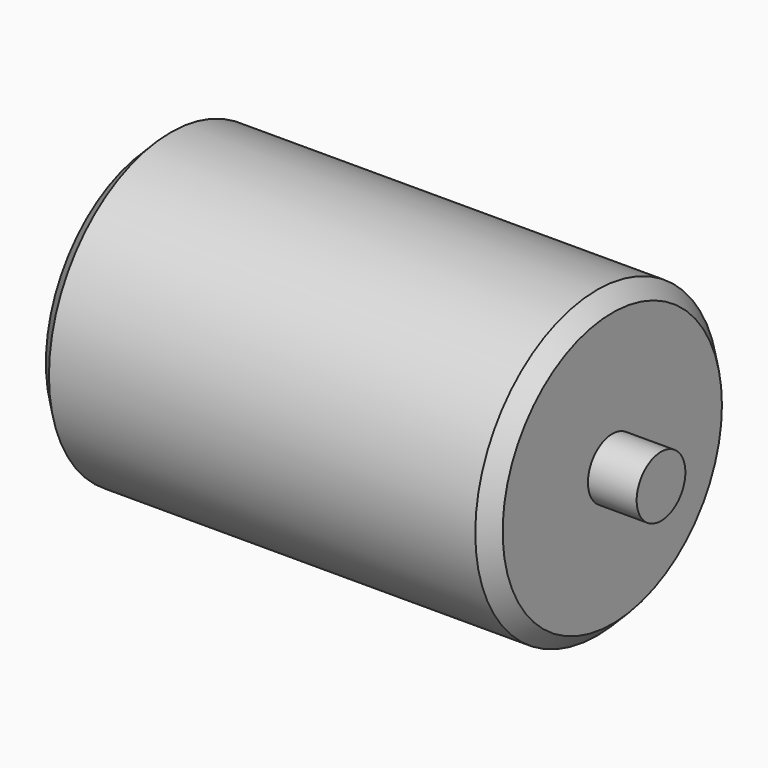
from build123d import *

# Parameters (mm, degrees)
F2_SIZE = 5


with BuildPart() as f1:
    # F0 (on Top) → F1 (revolve)
    with BuildSketch(Plane.XY):
        Polygon((-91, 10), (-91, 0), (91, 0), (91, 10), (75, 10), (75, 50), (-75, 50), (-75, 10), align=None)
    revolve(axis=Axis((0, 0, 0), (-1, 0, 0)))

    # F2
    f2_edges = [f1.edges().sort_by_distance(p)[0] for p in [
        (-75, -50, 0),
        (75, -50, 0),
    ]]
    chamfer(f2_edges, length=F2_SIZE)


solid = f1.part
